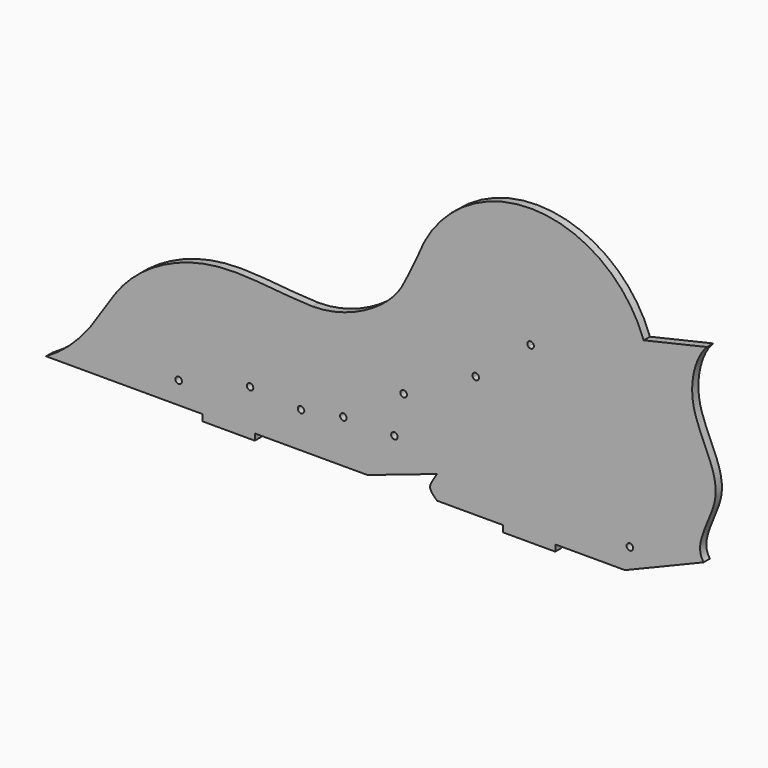
from build123d import *

# Parameters (mm, degrees)
F0_R     = 1.5875
F1_DEPTH = 3.81


with BuildPart() as f1:
    # F0 (on Front) → F1 (new body)
    with BuildSketch(Plane.XZ):
        with BuildLine():
            Line((-43.090851702, -3.1242), (-43.090851702, 0))
            Line((-43.090851702, 0), (11.7375096306, 0))
            Line((11.7375096306, 0), (45.617762953, 11.4486236125))
            add(Edge.make_bspline(
                [(45.617762953, 11.4486236125), (43.9961000977, 8.6191003913), (40.3730056188, 4.577922731), (44.1195508196, 1.4224311064), (45.617762953, 0)],
                knots=[0, 0, 0, 0, 0.5388146408, 1, 1, 1, 1], degree=3))
            Line((45.617762953, 0), (77.7362398488, 0))
            Line((77.7362398488, 0), (77.7362398488, -3.1242))
            Line((77.7362398488, -3.1242), (103.1362398488, -3.1242))
            Line((103.1362398488, -3.1242), (103.1362398488, 0))
            Line((103.1362398488, 0), (137.1024620031, 0))
            Line((137.1024620031, 0), (175.3601329191, 15.8024989069))
            add(Edge.make_bspline(
                [(176.9877400097, 108.5755596732), (171.7473141945, 103.3597046798), (164.3550587217, 79.2093285896), (191.2164116111, 47.498469968), (169.6077040725, 23.5923640125), (175.3601329191, 15.8024989069)],
                knots=[0, 0, 0, 0, 0.3117132351, 0.6730053796, 1, 1, 1, 1], degree=3))
            Line((176.9877400097, 108.5755596732), (146.1987151904, 101.452911742))
            ThreePointArc((146.1987151904, 101.452911742), (91.5320388396, 140.0844195098), (36.3692378486, 102.1647111449))
            add(Edge.make_bspline(
                [(-15.078710516, 63.5241562685), (0.3297940237, 63.5041378405), (27.1279570327, 77.8387740817), (31.1426373051, 91.6452955028), (36.3692378486, 102.1647111449)],
                knots=[0, 0, 0, 0, 0.5551499724, 1, 1, 1, 1], degree=3))
            add(Edge.make_bspline(
                [(-15.078710516, 63.5241562685), (-30.8021855302, 63.8675037628), (-65.4962545936, 70.9878737096), (-114.1797542997, 45.7754396965), (-122.9711554478, 12.7121701485), (-144.690851702, 0)],
                knots=[0.2992076009, 0.2992076009, 0.2992076009, 0.2992076009, 0.50107299, 0.7437623527, 1, 1, 1, 1], degree=3))
            Line((-144.690851702, 0), (-68.490851702, 0))
            Line((-68.490851702, 0), (-68.490851702, -3.1242))
            Line((-68.490851702, -3.1242), (-43.090851702, -3.1242))
        make_face()
        with Locations((-80.1899433136, 10.7241785154)):
            Circle(F0_R, mode=Mode.SUBTRACT)
        with Locations((-45.4173433136, 19.2251093046)):
            Circle(F0_R, mode=Mode.SUBTRACT)
        with Locations((-20.6142470102, 17.4490999235)):
            Circle(F0_R, mode=Mode.SUBTRACT)
        with Locations((0, 21.0686270148)):
            Circle(F0_R, mode=Mode.SUBTRACT)
        with Locations((24.8666, 21.0686270148)):
            Circle(F0_R, mode=Mode.SUBTRACT)
        with Locations((139.4535154104, 10.7241785154)):
            Circle(F0_R, mode=Mode.SUBTRACT)
        with BuildLine():
            ThreePointArc((30.7592003997, 41.2713398651), (30.8999876678, 40.90769576), (30.9478799796, 40.5207016819))
            ThreePointArc((30.9478799796, 40.5207016819), (27.8207722914, 40.1337076037), (30.7592003997, 41.2713398651))
        make_face(mode=Mode.SUBTRACT)
        with BuildLine():
            ThreePointArc((65.9967244268, 59.3286920018), (64.796218505, 57.7890843136), (63.0104040067, 58.5780538185))
            ThreePointArc((63.0104040067, 58.5780538185), (63.5221237134, 60.6452057975), (65.6301646769, 60.3433156541))
            ThreePointArc((65.6301646769, 60.3433156541), (65.9022748106, 59.8680961189), (65.9967244268, 59.3286920018))
        make_face(mode=Mode.SUBTRACT)
        with BuildLine():
            ThreePointArc((92.7401996638, 81.553008482), (91.6921037808, 80.0599580982), (89.9317594137, 80.5383848296))
            ThreePointArc((89.9317594137, 80.5383848296), (90.6132955467, 83.0460588657), (92.7401996638, 81.553008482))
        make_face(mode=Mode.SUBTRACT)
    extrude(amount=F1_DEPTH)


solid = f1.part
